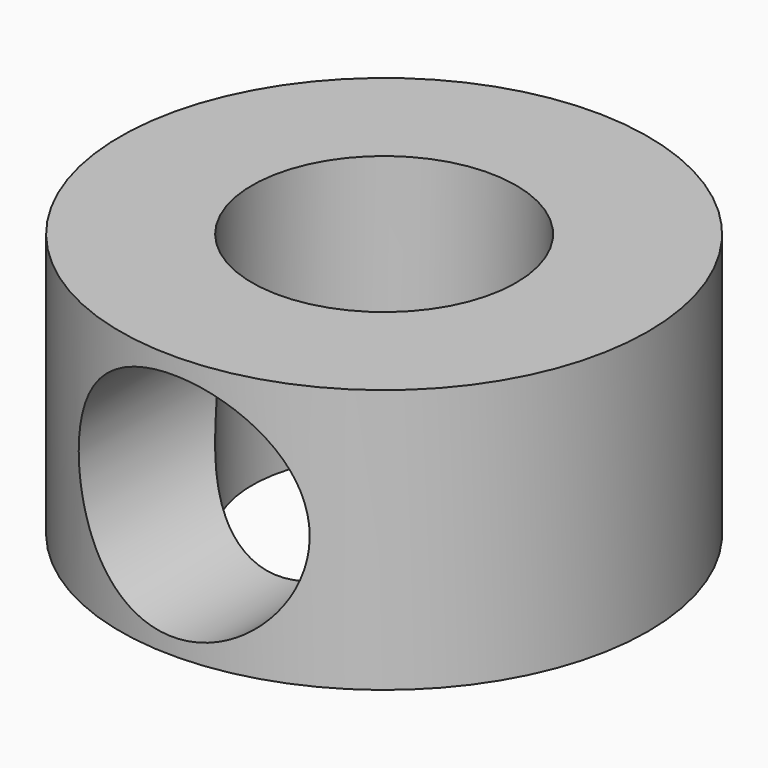
from build123d import *

# Parameters (mm, degrees)
F0_R     = 2
F0_R_2   = 1
F1_DEPTH = 2
F4_D     = 1.75
F4_DEPTH = 1.75
F4_START = 0.2015633
F4_TIP   = 0.5257530416


with BuildPart() as f1:
    # F0 (on Top) → F1 (new body)
    with BuildSketch(Plane.XY):
        Circle(F0_R)
        Circle(F0_R_2, mode=Mode.SUBTRACT)
    extrude(amount=F1_DEPTH)

    # F4
    # its depths count from where the whole tool has entered the part; down to there all is cleared
    with Locations(Plane.XZ.offset(2).offset(-F4_START)):
        with Locations((0, 1)):
            Hole(F4_D / 2, depth=F4_DEPTH)
            with Locations((0, 0, -(F4_DEPTH + F4_TIP / 2))):  # 118° drill point
                Cone(0, F4_D / 2, F4_TIP, mode=Mode.SUBTRACT)


solid = f1.part
